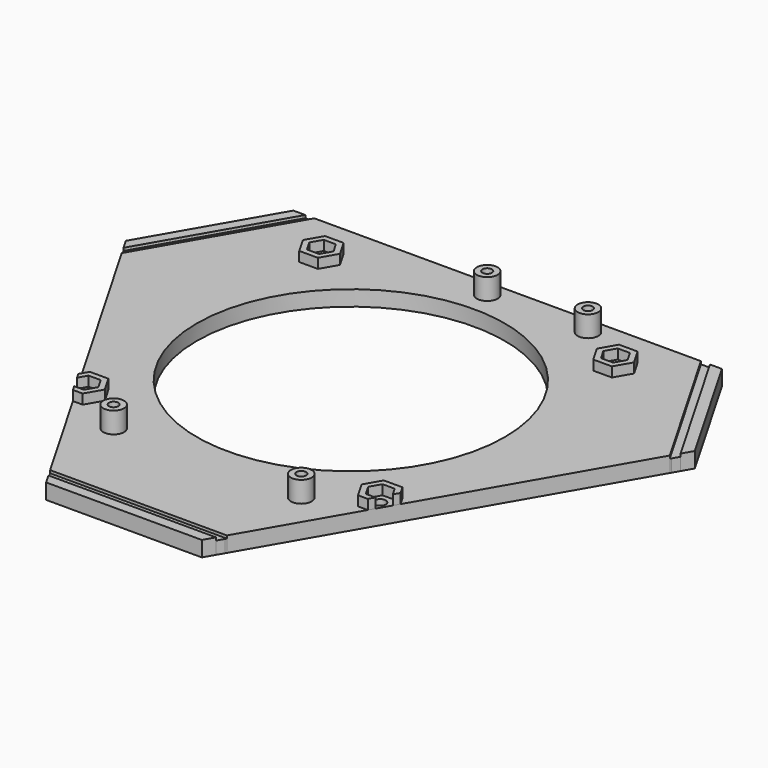
from build123d import *

# Parameters (mm, degrees)
F2_DEPTH      = 5.5
F3_DEPTH      = 4.5
F4_R          = 3.7
F4_R_2        = 1.7
F5_DEPTH      = 7.5
F6_DEPTH      = 25
F7_R          = 2
F7_R_2        = 55
F8_DEPTH      = 25
F9_DEPTH      = 7.5
F9_DEPTH_BACK = 2
F10_START     = -1.6
F10_DEPTH     = 0.4
F12_DEPTH     = 3.5
F14_W         = 250.9568184614
F14_H         = 134.5421932638
F15_DEPTH     = 25


with BuildPart() as f2:
    # F1 (on face) → F2 (new body)
    with BuildSketch(Plane.XY):
        Polygon((-66.2961039686, 74.7239265275), (-97.8608706276, 20.052146945), (-31.5647666591, -94.7760734725), (31.5647666591, -94.7760734725), (97.8608706276, 20.052146945), (66.2961039686, 74.7239265275), align=None)
    extrude(amount=F2_DEPTH)



with BuildPart() as f2b:
    # F1 (on face) → F2, piece 2 (new body)
    with BuildSketch(Plane.XY):
        Polygon((73.801657468, 74.7239265275), (69.529265476, 74.7239265275), (99.4774513814, 22.852146945), (101.6136473774, 26.552146945), align=None)
    extrude(amount=F2_DEPTH)


with BuildPart() as f2c:
    # F1 (on face) → F2, piece 3 (new body)
    with BuildSketch(Plane.XY):
        Polygon((29.9481859053, -97.5760734725), (-29.9481859053, -97.5760734725), (-27.8119899093, -101.2760734725), (27.8119899093, -101.2760734725), align=None)
    extrude(amount=F2_DEPTH)


with BuildPart() as f2d:
    # F1 (on face) → F2, piece 4 (new body)
    with BuildSketch(Plane.XY):
        Polygon((-73.801657468, 74.7239265275), (-101.6136473774, 26.552146945), (-99.4774513814, 22.852146945), (-69.529265476, 74.7239265275), align=None)
    extrude(amount=F2_DEPTH)


with BuildPart() as f2_1:
    add(f2.part)

    add(f2b.part)  # F3 merges F2b

    add(f2c.part)  # F3 merges F2c

    add(f2d.part)  # F3 merges F2d
    # F1 (on face) → F3 (join)
    with BuildSketch(Plane.XY):
        Polygon((-69.529265476, 74.7239265275), (-99.4774513814, 22.852146945), (-98.1495457622, 20.552146945), (-66.8734542378, 74.7239265275), align=None)
        Polygon((31.2760915245, -95.2760734725), (-31.2760915245, -95.2760734725), (-29.9481859053, -97.5760734725), (29.9481859053, -97.5760734725), align=None)
        Polygon((31.5647666591, -94.7760734725), (-31.5647666591, -94.7760734725), (-31.2760915245, -95.2760734725), (31.2760915245, -95.2760734725), align=None)
        Polygon((66.8734542378, 74.7239265275), (66.2961039686, 74.7239265275), (97.8608706276, 20.052146945), (98.1495457622, 20.552146945), align=None)
        Polygon((69.529265476, 74.7239265275), (66.8734542378, 74.7239265275), (98.1495457622, 20.552146945), (99.4774513814, 22.852146945), align=None)
        Polygon((-66.8734542378, 74.7239265275), (-98.1495457622, 20.552146945), (-97.8608706276, 20.052146945), (-66.2961039686, 74.7239265275), align=None)
    extrude(amount=F3_DEPTH)

    # F4 (on face) → F5 (join)
    with BuildSketch(Plane.XY.offset(5.5)):
        with Locations((33.5, 64)):
            Circle(F4_R)
        with Locations((33.5, 64)):
            Circle(F4_R_2, mode=Mode.SUBTRACT)
        with Locations((-2.5, 64)):
            Circle(F4_R)
        with Locations((-2.5, 64)):
            Circle(F4_R_2, mode=Mode.SUBTRACT)
        with Locations((33.5, -64)):
            Circle(F4_R)
        with Locations((33.5, -64)):
            Circle(F4_R_2, mode=Mode.SUBTRACT)
        with Locations((-33.5, -64)):
            Circle(F4_R)
        with Locations((-33.5, -64)):
            Circle(F4_R_2, mode=Mode.SUBTRACT)
    extrude(amount=F5_DEPTH)

    # F6 (cut): faces of the model
    f6_faces = [f2_1.faces().sort_by_distance(p)[0] for p in [
        (-33.5, -64, 5.5),
        (33.5, -64, 5.5),
        (-2.5, 64, 5.5),
        (33.5, 64, 5.5),
    ]]
    extrude(f6_faces, amount=-F6_DEPTH, mode=Mode.SUBTRACT)

    # F7 (on face) → F8 (cut)
    with BuildSketch(Plane.XY):
        with Locations((52.5, 52.5)):
            Circle(F7_R)
        with Locations((52.5, -52.5)):
            Circle(F7_R)
        with Locations((-52.5, -52.5)):
            Circle(F7_R)
        with Locations((-52.5, 52.5)):
            Circle(F7_R)
        Circle(F7_R_2)
        Polygon((-31.7679491924, -67), (-30.0358983849, -64), (-31.7679491924, -61), (-35.2320508076, -61), (-36.9641016151, -64), (-35.2320508076, -67), align=None)
        Polygon((31.7679491924, -67), (35.2320508076, -67), (36.9641016151, -64), (35.2320508076, -61), (31.7679491924, -61), (30.0358983849, -64), align=None)
        Polygon((-4.2320508076, 61), (-0.7679491924, 61), (0.9641016151, 64), (-0.7679491924, 67), (-4.2320508076, 67), (-5.9641016151, 64), align=None)
        Polygon((31.7679491924, 61), (35.2320508076, 61), (36.9641016151, 64), (35.2320508076, 67), (31.7679491924, 67), (30.0358983849, 64), align=None)
    extrude(amount=F8_DEPTH, mode=Mode.SUBTRACT)

    # F4 (on face) → F9 (join, two sides)
    with BuildSketch(Plane.XY.offset(5.5)) as f9_sk:
        with Locations((33.5, 64)):
            Circle(F4_R)
        with Locations((33.5, 64)):
            Circle(F4_R_2, mode=Mode.SUBTRACT)
        with Locations((-2.5, 64)):
            Circle(F4_R)
        with Locations((-2.5, 64)):
            Circle(F4_R_2, mode=Mode.SUBTRACT)
        with Locations((33.5, -64)):
            Circle(F4_R)
        with Locations((33.5, -64)):
            Circle(F4_R_2, mode=Mode.SUBTRACT)
        with Locations((-33.5, -64)):
            Circle(F4_R)
        with Locations((-33.5, -64)):
            Circle(F4_R_2, mode=Mode.SUBTRACT)
    extrude(amount=F9_DEPTH)
    extrude(f9_sk.sketch, amount=-F9_DEPTH_BACK)

    # F4 (on face) → F10 (join)
    with BuildSketch(Plane.XY.offset(5.5).offset(F10_START)):
        with Locations((33.5, 64)):
            Circle(F4_R_2)
        with Locations((-2.5, 64)):
            Circle(F4_R_2)
        with Locations((-33.5, -64)):
            Circle(F4_R_2)
        with Locations((33.5, -64)):
            Circle(F4_R_2)
    extrude(amount=-F10_DEPTH)

    # F11 (on face) → F12 (join)
    with BuildSketch(Plane.XY.offset(5.5)):
        Polygon((-56.4014980388, -51.7575928288), (-54.6650635095, -48.75), (-50.3349364905, -48.75), (-48.1698729811, -52.5), (-50.3349364905, -56.25), (-53.8078055492, -56.25), (-52.6531050108, -58.25), (-49.1802359522, -58.25), (-45.8604719043, -52.5), (-49.1802359522, -46.75), (-55.8197640478, -46.75), (-57.5561985772, -49.7575928288), align=None)
        Polygon((49.1802359522, -58.25), (52.6531050108, -58.25), (53.8078055492, -56.25), (50.3349364905, -56.25), (48.1698729811, -52.5), (50.3349364905, -48.75), (54.6650635095, -48.75), (56.4014980388, -51.7575928288), (57.5561985772, -49.7575928288), (55.8197640478, -46.75), (49.1802359522, -46.75), (45.8604719043, -52.5), align=None)
        Polygon((-55.8197640478, 46.75), (-49.1802359522, 46.75), (-45.8604719043, 52.5), (-49.1802359522, 58.25), (-55.8197640478, 58.25), (-59.1395280957, 52.5), align=None)
        Polygon((-48.1698729811, 52.5), (-50.3349364905, 48.75), (-54.6650635095, 48.75), (-56.8301270189, 52.5), (-54.6650635095, 56.25), (-50.3349364905, 56.25), align=None, mode=Mode.SUBTRACT)
        Polygon((49.1802359522, 46.75), (55.8197640478, 46.75), (59.1395280957, 52.5), (55.8197640478, 58.25), (49.1802359522, 58.25), (45.8604719043, 52.5), align=None)
        Polygon((56.8301270189, 52.5), (54.6650635095, 48.75), (50.3349364905, 48.75), (48.1698729811, 52.5), (50.3349364905, 56.25), (54.6650635095, 56.25), align=None, mode=Mode.SUBTRACT)
    extrude(amount=F12_DEPTH)

    # F14 (on offset) → F15 (cut)
    with BuildSketch(Plane.XZ.offset(-70)):
        with Locations((4.6517625451, 26.0684285313)):
            Rectangle(F14_W, F14_H)
    extrude(amount=-F15_DEPTH, mode=Mode.SUBTRACT)


solid = f2_1.part
